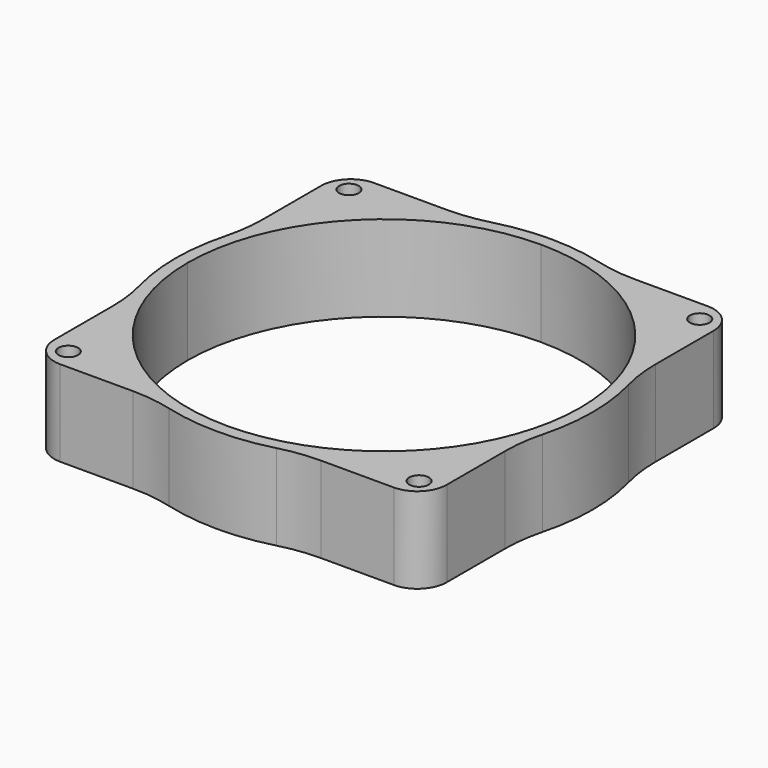
from build123d import *

# Parameters (mm, degrees)
F0_R     = 2
F1_DEPTH = 17.5
F2_R     = 6
F3_R     = 32


with BuildPart() as f1:
    # F0 (on Top) → F1 (new body)
    with BuildSketch(Plane.XY):
        with BuildLine():
            Line((40, 14.3614066163), (40, 40))
            Line((40, 40), (14.3614066163, 40))
            ThreePointArc((14.3614066163, 40), (30.0520382004, 30.0520382004), (40, 14.3614066163))
        make_face()
        with Locations((35.75, 35.75)):
            Circle(F0_R, mode=Mode.SUBTRACT)
        with BuildLine():
            ThreePointArc((40, 14.3614066163), (30.0520382004, 30.0520382004), (14.3614066163, 40))
            Line((14.3614066163, 40), (0, 40))
            ThreePointArc((0, 40), (28.2842712475, 28.2842712475), (40, 0))
            Line((40, 0), (40, 14.3614066163))
        make_face()
        with BuildLine():
            Line((0, 40), (14.3614066163, 40))
            ThreePointArc((14.3614066163, 40), (0, 42.5), (-14.3614066163, 40))
            Line((-14.3614066163, 40), (0, 40))
        make_face()
        with BuildLine():
            ThreePointArc((42.5, 0), (41.8703355611, 7.2886898686), (40, 14.3614066163))
            Line((40, 14.3614066163), (40, 0))
            Line((40, 0), (40, -14.3614066163))
            ThreePointArc((40, -14.3614066163), (41.8703355611, -7.2886898686), (42.5, 0))
        make_face()
        with BuildLine():
            ThreePointArc((-40, 0), (-28.2842712475, 28.2842712475), (0, 40))
            Line((0, 40), (-14.3614066163, 40))
            ThreePointArc((-14.3614066163, 40), (-30.0520382004, 30.0520382004), (-40, 14.3614066163))
            Line((-40, 14.3614066163), (-40, 0))
        make_face()
        with BuildLine():
            ThreePointArc((-40, 14.3614066163), (-30.0520382004, 30.0520382004), (-14.3614066163, 40))
            Line((-14.3614066163, 40), (-40, 40))
            Line((-40, 40), (-40, 14.3614066163))
        make_face()
        with Locations((-35.75, 35.75)):
            Circle(F0_R, mode=Mode.SUBTRACT)
        with BuildLine():
            Line((40, -14.3614066163), (40, 0))
            ThreePointArc((40, 0), (28.2842712475, -28.2842712475), (0, -40))
            Line((0, -40), (14.3614066163, -40))
            ThreePointArc((14.3614066163, -40), (30.0520382004, -30.0520382004), (40, -14.3614066163))
        make_face()
        with BuildLine():
            Line((-40, -14.3614066163), (-40, 0))
            Line((-40, 0), (-40, 14.3614066163))
            ThreePointArc((-40, 14.3614066163), (-42.5, 0), (-40, -14.3614066163))
        make_face()
        with BuildLine():
            ThreePointArc((0, -40), (-28.2842712475, -28.2842712475), (-40, 0))
            Line((-40, 0), (-40, -14.3614066163))
            ThreePointArc((-40, -14.3614066163), (-30.0520382004, -30.0520382004), (-14.3614066163, -40))
            Line((-14.3614066163, -40), (0, -40))
        make_face()
        with BuildLine():
            Line((40, -40), (40, -14.3614066163))
            ThreePointArc((40, -14.3614066163), (30.0520382004, -30.0520382004), (14.3614066163, -40))
            Line((14.3614066163, -40), (40, -40))
        make_face()
        with Locations((35.75, -35.75)):
            Circle(F0_R, mode=Mode.SUBTRACT)
        with BuildLine():
            Line((14.3614066163, -40), (0, -40))
            Line((0, -40), (-14.3614066163, -40))
            ThreePointArc((-14.3614066163, -40), (0, -42.5), (14.3614066163, -40))
        make_face()
        with BuildLine():
            ThreePointArc((-14.3614066163, -40), (-30.0520382004, -30.0520382004), (-40, -14.3614066163))
            Line((-40, -14.3614066163), (-40, -40))
            Line((-40, -40), (-14.3614066163, -40))
        make_face()
        with Locations((-35.75, -35.75)):
            Circle(F0_R, mode=Mode.SUBTRACT)
    extrude(amount=F1_DEPTH)

    # F2
    f2_edges = [f1.edges().sort_by_distance(p)[0] for p in [
        (-40, -40, 8.75),
        (40, -40, 8.75),
        (-40, 40, 8.75),
        (40, 40, 8.75),
    ]]
    fillet(f2_edges, radius=F2_R)

    # F3
    f3_edges = [f1.edges().sort_by_distance(p)[0] for p in [
        (-40, 14.361407, 8.75),
        (-40, -14.361407, 8.75),
        (-14.361407, -40, 8.75),
        (14.361407, -40, 8.75),
        (40, -14.361407, 8.75),
        (40, 14.361407, 8.75),
        (14.361407, 40, 8.75),
        (-14.361407, 40, 8.75),
    ]]
    fillet(f3_edges, radius=F3_R)


solid = f1.part
